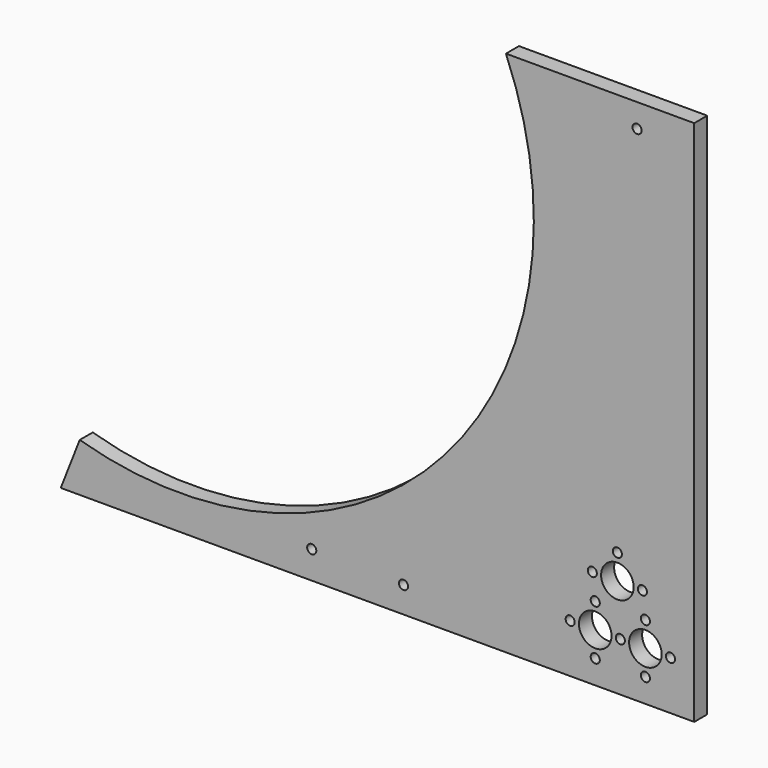
from build123d import *

# Parameters (mm, degrees)
F0_R     = 1.778
F0_R_2   = 6.35
F1_DEPTH = 6.35


with BuildPart() as f1:
    # F0 (on Front) → F1 (new body)
    with BuildSketch(Plane.XZ):
        with BuildLine():
            ThreePointArc((127.545797, 53.804597), (103.389041, -92.052002), (-38.696128, -132.911529))
            Line((-38.696128, -132.911529), (-46.095596, -151.796758))
            Line((-46.095596, -151.796758), (-38.616359, -151.796758))
            Line((-38.616359, -151.796758), (200.989076, -151.796758))
            Line((200.989076, -151.796758), (200.989076, -145.446758))
            Line((200.989076, -145.446758), (200.989076, 53.804597))
            Line((200.989076, 53.804597), (127.545797, 53.804597))
        make_face()
        with Locations((51.796343, -140.985444)):
            Circle(F0_R, mode=Mode.SUBTRACT)
        with Locations((87.590314, -141.603768)):
            Circle(F0_R, mode=Mode.SUBTRACT)
        with Locations((162.381076, -142.525758)):
            Circle(F0_R, mode=Mode.SUBTRACT)
        with Locations((152.602076, -132.746758)):
            Circle(F0_R, mode=Mode.SUBTRACT)
        with Locations((162.381076, -132.746758)):
            Circle(F0_R_2, mode=Mode.SUBTRACT)
        with Locations((181.939076, -142.525758)):
            Circle(F0_R, mode=Mode.SUBTRACT)
        with Locations((172.160076, -132.746758)):
            Circle(F0_R, mode=Mode.SUBTRACT)
        with Locations((181.939076, -132.746758)):
            Circle(F0_R_2, mode=Mode.SUBTRACT)
        with Locations((191.718076, -132.746758)):
            Circle(F0_R, mode=Mode.SUBTRACT)
        with Locations((162.381076, -122.967758)):
            Circle(F0_R, mode=Mode.SUBTRACT)
        with Locations((161.235617, -113.188758)):
            Circle(F0_R, mode=Mode.SUBTRACT)
        with Locations((181.939076, -122.967758)):
            Circle(F0_R, mode=Mode.SUBTRACT)
        with Locations((171.014617, -113.188758)):
            Circle(F0_R_2, mode=Mode.SUBTRACT)
        with Locations((180.793617, -113.188758)):
            Circle(F0_R, mode=Mode.SUBTRACT)
        with Locations((171.014617, -103.409758)):
            Circle(F0_R, mode=Mode.SUBTRACT)
        with Locations((178.707197, 44.601519)):
            Circle(F0_R, mode=Mode.SUBTRACT)
    extrude(amount=F1_DEPTH)


solid = f1.part
